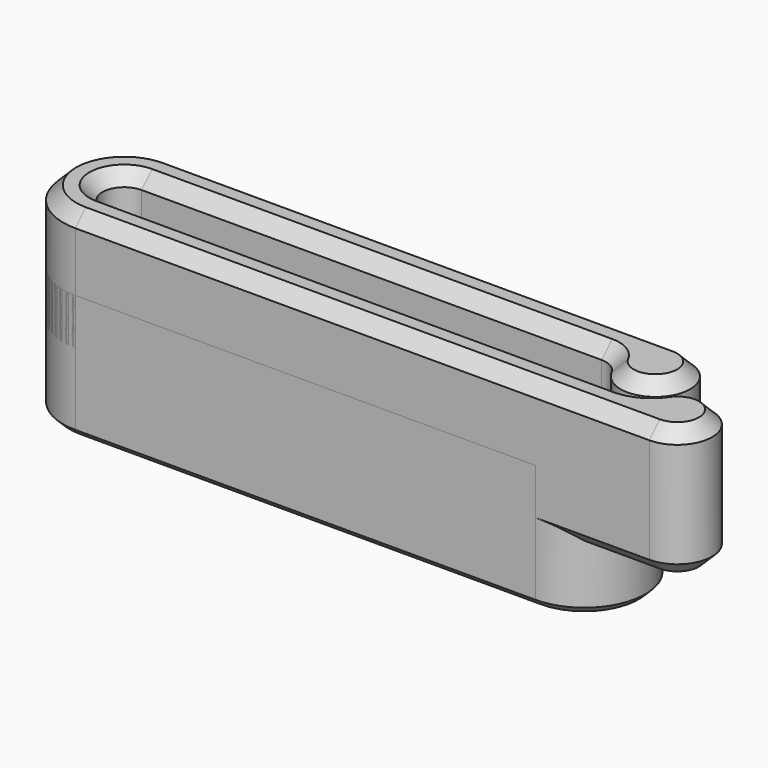
from build123d import *

# Parameters (mm, degrees)
PAD_DEPTH           = 10
CHAMFER_SIZE        = 1
PAD001_DEPTH        = 5
POCKET_DEPTH        = 5.001
POCKET_DEPTH_BACK   = -5.001
CHAMFER001_SIZE     = 0.5
FILLET_R            = 0.2
REVOLUTION_ANGLE    = 180
REVOLUTION001_ANGLE = 180


with BuildPart() as clip:
    # Sketch → Pad (new body)
    with BuildSketch(Plane.XY):
        with BuildLine():
            ThreePointArc((36.460662, 0.767442), (41.074698, 0.629558), (38.806573, 4.65))
            Line((38.806573, 4.65), (0, 4.65))
            ThreePointArc((0, 4.65), (-4.65, 0), (0, -4.65))
            Line((0, -4.65), (43.673811, -4.65))
            ThreePointArc((43.673811, -4.65), (46.018752, -0.765597), (41.489205, -0.5))
            ThreePointArc((39.3046, -1.65), (40.539003, -1.344941), (41.489205, -0.5))
            Line((0, -1.65), (39.3046, -1.65))
            ThreePointArc((0, 1.65), (-1.65, 0), (0, -1.65))
            Line((35, 1.65), (0, 1.65))
            ThreePointArc((36.460662, 0.767442), (35.853294, 1.412229), (35, 1.65))
        make_face()
    extrude(amount=PAD_DEPTH)

    # Chamfer
    chamfer_edges = [clip.edges().sort_by_distance(p)[0] for p in [
        (41.074698, 0.629558, 10),
        (19.403287, 4.65, 10),
        (-4.65, 0, 10),
        (21.836905, -4.65, 10),
        (46.018752, -0.765597, 10),
        (40.539003, -1.344941, 10),
        (19.6523, -1.65, 10),
        (-1.65, 0, 10),
        (17.5, 1.65, 10),
        (35.853294, 1.412229, 10),
        (41.074698, 0.629558, 0),
        (19.403287, 4.65, 0),
        (-4.65, 0, 0),
        (21.836905, -4.65, 0),
        (46.018752, -0.765597, 0),
        (40.539003, -1.344941, 0),
        (19.6523, -1.65, 0),
        (-1.65, 0, 0),
        (17.5, 1.65, 0),
        (35.853294, 1.412229, 0),
    ]]
    chamfer(chamfer_edges, length=CHAMFER_SIZE)


with BuildPart() as clip2:
    # Sketch001 → Pad001 (new body, symmetric)
    with BuildSketch(Plane.XY):
        with BuildLine():
            ThreePointArc((0, 4.65), (-4.65, -7e-06), (1.3e-05, -4.65))
            Line((1.3e-05, -4.65), (35.000011, -4.65))
            ThreePointArc((35.000011, -4.65), (39.650011, 0), (35.000011, 4.65))
            Line((0, 4.65), (35.000011, 4.65))
        make_face()
        with BuildLine():
            Line((0, -1.65), (35, -1.65))
            ThreePointArc((35, -1.65), (36.650011, -5e-06), (35.000011, 1.65))
            Line((35.000011, 1.65), (0, 1.65))
            ThreePointArc((0, 1.65), (-1.65, 0), (0, -1.65))
        make_face(mode=Mode.SUBTRACT)
    extrude(amount=PAD001_DEPTH, both=True)

    # Sketch002 → Pocket (cut, two sides)
    with BuildSketch(Plane.XY) as pocket_sk:
        Polygon((32.203858, 1.65), (37.400011, 4.65), (35.000011, 4.65), (29.803858, 1.65), align=None)
    extrude(amount=-POCKET_DEPTH, mode=Mode.SUBTRACT)
    extrude(pocket_sk.sketch, amount=-POCKET_DEPTH_BACK, mode=Mode.SUBTRACT)

    # Chamfer001
    chamfer001_edges = [clip2.edges().sort_by_distance(p)[0] for p in [
        (17.500005, 4.65, 5),
        (32.401934, 3.15, 5),
        (14.901929, 1.65, 5),
        (-1.65, 0, 5),
        (17.5, -1.65, 5),
        (36.650011, -5e-06, 5),
        (33.601934, 1.65, 5),
        (34.49384, 2.972121, 5),
        (39.560204, -0.90947, 5),
        (17.500012, -4.65, 5),
        (-4.65, -7e-06, 5),
        (17.500005, 4.65, -5),
        (32.401934, 3.15, -5),
        (14.901929, 1.65, -5),
        (-1.65, 0, -5),
        (17.5, -1.65, -5),
        (36.650011, -5e-06, -5),
        (33.601934, 1.65, -5),
        (34.49384, 2.972121, -5),
        (39.560204, -0.90947, -5),
        (17.500012, -4.65, -5),
        (-4.65, -7e-06, -5),
    ]]
    chamfer(chamfer001_edges, length=CHAMFER001_SIZE)

    # Fillet
    fillet_edges = [clip2.edges().sort_by_distance(p)[0] for p in [
        (32.203858, 1.65, 0),
        (35.000011, 4.65, 0),
    ]]
    fillet(fillet_edges, radius=FILLET_R)

    # Sketch003 (on Face36 of Fillet) → Revolution (revolve)
    with BuildSketch(Plane(origin=(0, -3.15, 0), x_dir=(-1, 0, 0), z_dir=(0, 1, 0))):
        with BuildLine():
            ThreePointArc((-9, 0), (-11, 2), (-13, 0))
            Line((-13, 0), (-9, 0))
        make_face()
        with BuildLine():
            ThreePointArc((-22, 0), (-24, 2), (-26, 0))
            Line((-26, 0), (-22, 0))
        make_face()
    revolve(axis=Axis((0, -3.15, 0), (-1, 0, 0)), revolution_arc=REVOLUTION_ANGLE)

    # Sketch004 (on Face22 of Revolution) → Revolution001 (revolve)
    with BuildSketch(Plane.XZ.offset(-3.15)):
        with BuildLine():
            ThreePointArc((13, 0), (11, 2), (9, 0))
            Line((9, 0), (13, 0))
        make_face()
        with BuildLine():
            ThreePointArc((26, 0), (24, 2), (22, 0))
            Line((22, 0), (26, 0))
        make_face()
    revolve(axis=Axis((0, 3.15, 0), (1, 0, 0)), revolution_arc=REVOLUTION001_ANGLE)


solid = Compound([clip.part, clip2.part])
